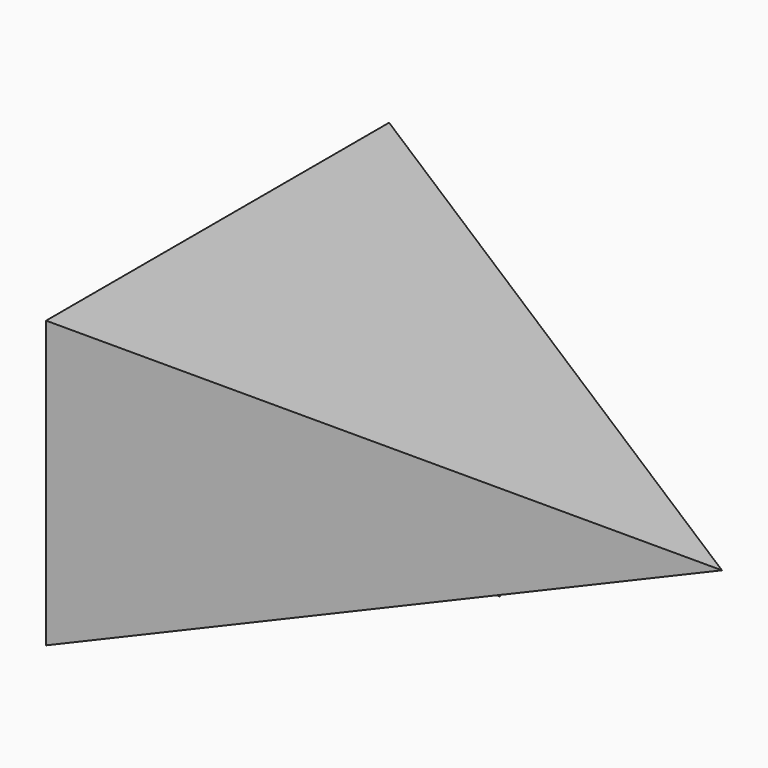
from build123d import *

# Parameters (mm, degrees)
F1_DEPTH = 25
F3_DEPTH = 25


with BuildPart() as f1:
    # F0 (on Top) → F1 (new body)
    with BuildSketch(Plane.XY):
        Polygon((-59.480719, 22.291102), (-118.588671, 59.791102), (-118.588671, 22.291102), align=None)
    extrude(amount=F1_DEPTH)

    # F2 (on face) → F3 (cut)
    with BuildSketch(Plane.XZ.offset(-22.291102)):
        Polygon((-59.480719, 25), (-118.588671, 0), (-59.480719, 0), align=None)
    extrude(amount=-F3_DEPTH, mode=Mode.SUBTRACT)


solid = f1.part
